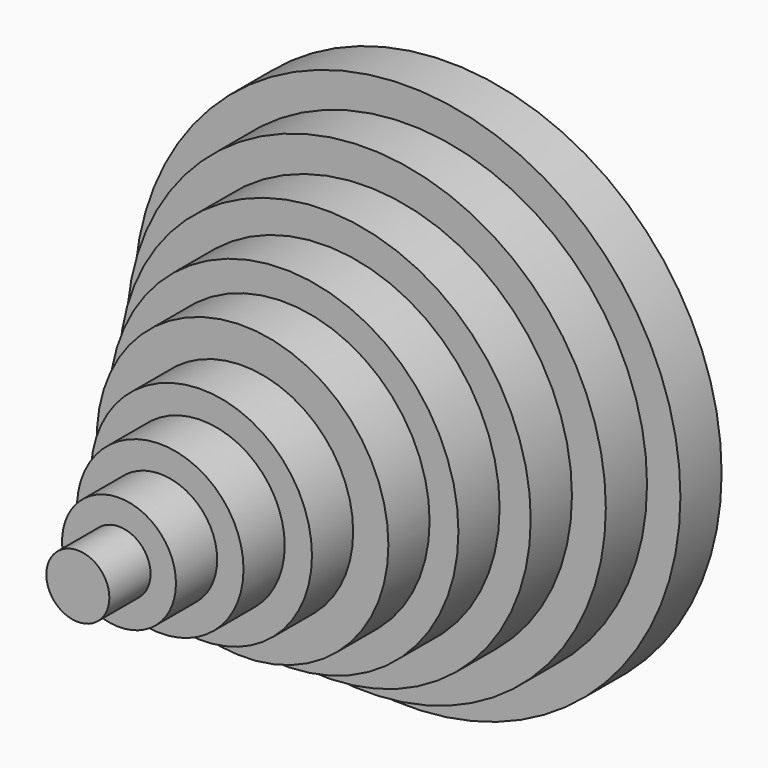
from build123d import *

# Parameters (mm, degrees)
F0_R     = 67.320572
F0_R_2   = 59.084794
F1_DEPTH = 12.7
F0_R_3   = 50.731089
F2_DEPTH = 25.4
F0_R_4   = 43.057022
F3_DEPTH = 38.1
F0_R_5   = 35.949193
F4_DEPTH = 50.8
F0_R_6   = 27.257099
F5_DEPTH = 63.5
F0_R_7   = 20.539643
F6_DEPTH = 76.2
F0_R_8   = 14.040046
F7_DEPTH = 88.9
F0_R_9   = 7.771382
F8_DEPTH = 101.6
F9_DEPTH = 114.3


with BuildPart() as f1:
    # F0 (on Front) → F1 (new body)
    with BuildSketch(Plane.XZ):
        Circle(F0_R)
        Circle(F0_R_2, mode=Mode.SUBTRACT)
    extrude(amount=F1_DEPTH)


with BuildPart() as f2:
    # F0 (on Front) → F2 (new body)
    with BuildSketch(Plane.XZ):
        Circle(F0_R_2)
        Circle(F0_R_3, mode=Mode.SUBTRACT)
    extrude(amount=F2_DEPTH)


with BuildPart() as f3:
    # F0 (on Front) → F3 (new body)
    with BuildSketch(Plane.XZ):
        Circle(F0_R_3)
        Circle(F0_R_4, mode=Mode.SUBTRACT)
    extrude(amount=F3_DEPTH)


with BuildPart() as f4:
    # F0 (on Front) → F4 (new body)
    with BuildSketch(Plane.XZ):
        Circle(F0_R_4)
        Circle(F0_R_5, mode=Mode.SUBTRACT)
    extrude(amount=F4_DEPTH)


with BuildPart() as f5:
    # F0 (on Front) → F5 (new body)
    with BuildSketch(Plane.XZ):
        Circle(F0_R_5)
        Circle(F0_R_6, mode=Mode.SUBTRACT)
    extrude(amount=F5_DEPTH)


with BuildPart() as f6:
    # F0 (on Front) → F6 (new body)
    with BuildSketch(Plane.XZ):
        Circle(F0_R_6)
        Circle(F0_R_7, mode=Mode.SUBTRACT)
    extrude(amount=F6_DEPTH)


with BuildPart() as f7:
    # F0 (on Front) → F7 (new body)
    with BuildSketch(Plane.XZ):
        Circle(F0_R_7)
        Circle(F0_R_8, mode=Mode.SUBTRACT)
    extrude(amount=F7_DEPTH)


with BuildPart() as f8:
    # F0 (on Front) → F8 (new body)
    with BuildSketch(Plane.XZ):
        Circle(F0_R_8)
        Circle(F0_R_9, mode=Mode.SUBTRACT)
    extrude(amount=F8_DEPTH)


with BuildPart() as f9:
    # F0 (on Front) → F9 (new body)
    with BuildSketch(Plane.XZ):
        Circle(F0_R_9)
    extrude(amount=F9_DEPTH)


solid = Compound([f1.part, f2.part, f3.part, f4.part, f5.part, f6.part, f7.part, f8.part, f9.part])
